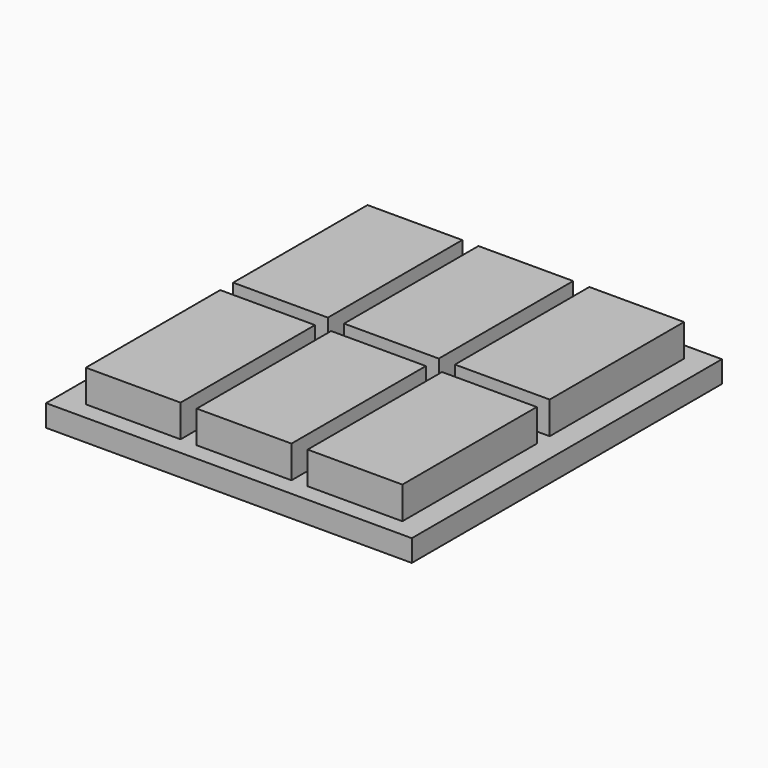
from build123d import *

# Parameters (mm, degrees)
F0_W     = 14.899441
F0_H     = 26.416
F1_DEPTH = 5.08
F2_W     = 57.511846
F2_H     = 3.426872
F3_DEPTH = 30.48


with BuildPart() as f1:
    # F0 (on Top) → F1 (new body)
    with BuildSketch(Plane.XY):
        with Locations((-17.439439, 14.478)):
            Rectangle(F0_W, F0_H)
        with Locations((2e-06, 14.478)):
            Rectangle(F0_W, F0_H)
        with Locations((17.439443, 14.478)):
            Rectangle(F0_W, F0_H)
        with Locations((17.439443, -14.478)):
            Rectangle(F0_W, F0_H)
        with Locations((2e-06, -14.478)):
            Rectangle(F0_W, F0_H)
        with Locations((-17.439439, -14.478)):
            Rectangle(F0_W, F0_H)
    extrude(amount=F1_DEPTH)


with BuildPart() as f3:
    # F2 (on Front) → F3 (new body, symmetric)
    with BuildSketch(Plane.XZ):
        with Locations((-0.148992, -1.713436)):
            Rectangle(F2_W, F2_H)
    extrude(amount=F3_DEPTH, both=True)


solid = Compound([f1.part, f3.part])
